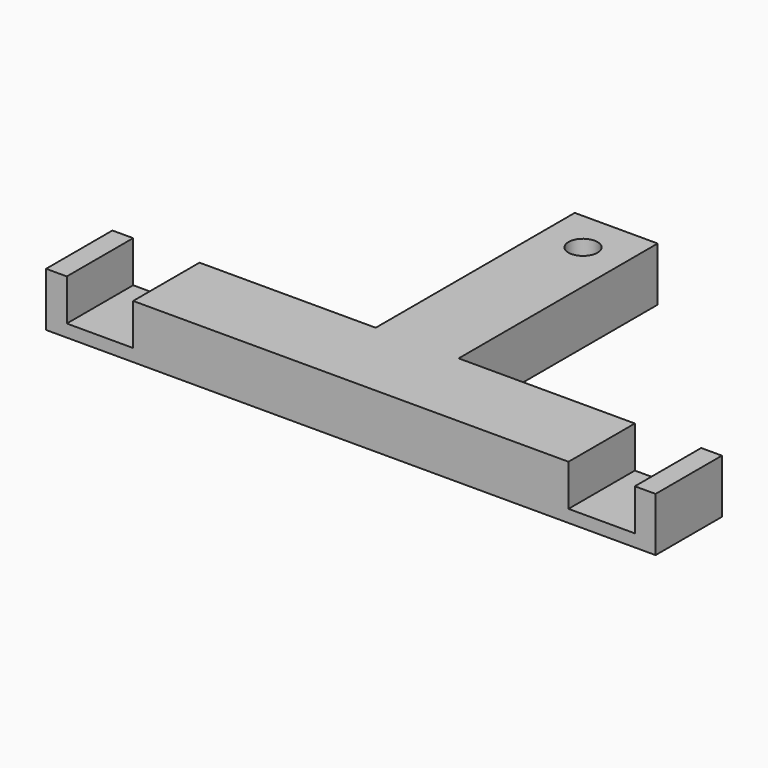
from build123d import *

# Parameters (mm, degrees)
SKETCH_W        = 147
SKETCH_H        = 20
PAD_DEPTH       = 13
SKETCH001_W     = 16
SKETCH001_H     = 20
POCKET_DEPTH    = 10
SKETCH002_W     = 20
SKETCH002_H     = 13
PAD001_DEPTH    = 60
SKETCH003_R     = 3.5
POCKET001_DEPTH = 13.001


with BuildPart() as part:
    # Sketch → Pad (new body)
    with BuildSketch(Plane.XY):
        with Locations((73.5, 10)):
            Rectangle(SKETCH_W, SKETCH_H)
    extrude(amount=PAD_DEPTH)

    # Sketch001 (on Face6 of Pad) → Pocket (cut)
    with BuildSketch(Plane.XY.offset(13)):
        with Locations((13, 10)):
            Rectangle(SKETCH001_W, SKETCH001_H)
        with Locations((134, 10)):
            Rectangle(SKETCH001_W, SKETCH001_H)
    extrude(amount=-POCKET_DEPTH, mode=Mode.SUBTRACT)

    # Sketch002 (on Face14 of Pocket) → Pad001 (join)
    with BuildSketch(Plane(origin=(0, 20, 0), x_dir=(-1, 0, 0), z_dir=(0, 1, 0))):
        with Locations((-73.5, 6.5)):
            Rectangle(SKETCH002_W, SKETCH002_H)
    extrude(amount=PAD001_DEPTH)

    # Sketch003 (on Face17 of Pad001) → Pocket001 (cut, through all)
    with BuildSketch(Plane.XY.offset(13)):
        with Locations((73.5, 70)):
            Circle(SKETCH003_R)
    extrude(amount=-POCKET001_DEPTH, mode=Mode.SUBTRACT)


solid = part.part
